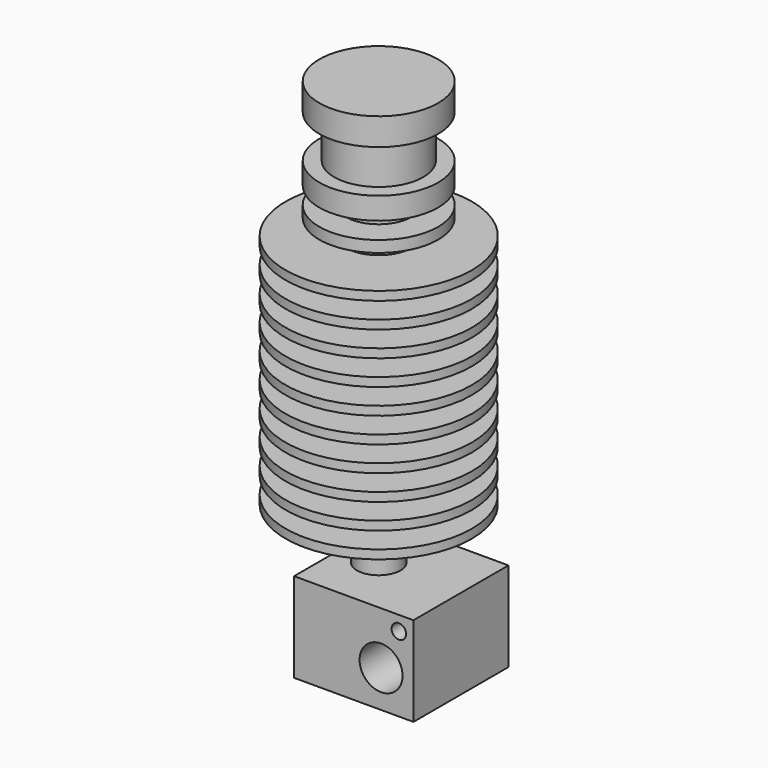
from build123d import *

# Parameters (mm, degrees)
F2_R      = 12.49045
F3_DEPTH  = 25.4
F5_W      = 16.0147
F5_H      = 15.9385
F6_DEPTH  = 12.0142
F7_R      = 2.8829
F7_R_2    = 0.9779
F8_DEPTH  = 25.4
F9_DEPTH  = 5.8166
F11_R     = 1.44145
F12_DEPTH = 25.4


with BuildPart() as f1:
    # F0 (on Front) → F1 (revolve)
    with BuildSketch(Plane.XZ):
        Polygon((0, 49.9999), (0, 0), (4.64185, 0), (12.49045, 0), (12.49045, 1.1811), (6.43255, 1.1811), (6.43255, 3.3937222222), (12.49045, 3.3937222222), (12.49045, 4.5748222222), (6.43255, 4.5748222222), (6.43255, 6.7874444444), (12.49045, 6.7874444444), (12.49045, 7.9685444444), (6.43255, 7.9685444444), (6.43255, 10.1811666667), (12.49045, 10.1811666667), (12.49045, 11.3622666667), (6.43255, 11.3622666667), (6.43255, 13.5748888889), (12.49045, 13.5748888889), (12.49045, 14.7559888889), (4.40055, 14.7559888889), (4.40055, 16.9686111111), (12.49045, 16.9686111111), (12.49045, 18.1497111111), (4.40055, 18.1497111111), (4.40055, 20.3623333333), (12.49045, 20.3623333333), (12.49045, 21.5434333333), (4.40055, 21.5434333333), (4.40055, 23.7560555556), (12.49045, 23.7560555556), (12.49045, 24.9371555556), (4.40055, 24.9371555556), (4.40055, 27.1497777778), (12.49045, 27.1497777778), (12.49045, 28.3308777778), (4.40055, 28.3308777778), (4.40055, 30.5435), (12.49045, 30.5435), (12.49045, 31.7246), (4.40055, 31.7246), (4.40055, 33.8582), (7.96925, 33.8582), (7.96925, 35.3822), (4.40055, 35.3822), (4.40055, 37.6555), (7.96925, 37.6555), (7.96925, 40.6146), (5.98805, 40.6146), (5.98805, 46.355), (7.96925, 46.355), (7.96925, 49.9999), align=None)
        Polygon((4.64185, 0), (0, 0), (0, -6.858), (2.91465, -6.858), (2.91465, -3.8481), (4.64185, -3.8481), (5.46735, -3.0226), (5.46735, -0.8255), align=None)
    revolve(axis=Axis((0, 0, 24.99995), (0, 0, 1)))

    # F2 (on Top) → F3 (cut)
    with BuildSketch(Plane.XY):
        Circle(F2_R)
        Polygon((4.7348639914, -2.733675), (0, -5.46735), (-4.7348639914, -2.733675), (-4.7348639914, 2.733675), (0, 5.46735), (4.7348639914, 2.733675), align=None, mode=Mode.SUBTRACT)
    extrude(amount=-F3_DEPTH, mode=Mode.SUBTRACT)

    # F5 (on offset) → F6 (join)
    with BuildSketch(Plane(origin=(0, 0, -6.858), x_dir=(1, 0, 0), z_dir=(0, 0, -1))):
        with Locations((3.0226, 0)):
            Rectangle(F5_W, F5_H)
    extrude(amount=F6_DEPTH)

    # F7 (on face) → F8 (cut)
    with BuildSketch(Plane(origin=(0, 7.96925, 0), x_dir=(-1, 0, 0), z_dir=(0, 1, 0))):
        with Locations((-6.68655, -13.8938)):
            Circle(F7_R)
        with Locations((-9.07415, -8.8138)):
            Circle(F7_R_2)
    extrude(amount=-F8_DEPTH, mode=Mode.SUBTRACT)

    # F7 (on face) → F9 (cut)
    with BuildSketch(Plane(origin=(0, 7.96925, 0), x_dir=(-1, 0, 0), z_dir=(0, 1, 0))):
        with Locations((-1.32715, -10.2616)):
            Circle(F7_R_2)
    extrude(amount=-F9_DEPTH, mode=Mode.SUBTRACT)

    # F11 (on plane+point) → F12 (cut)
    with BuildSketch(Plane(origin=(0, 0, -13.8938), x_dir=(1, 0, 0), z_dir=(0, 0, -1))):
        with Locations((6.68655, 0)):
            Circle(F11_R)
    extrude(amount=F12_DEPTH, mode=Mode.SUBTRACT)


solid = f1.part
